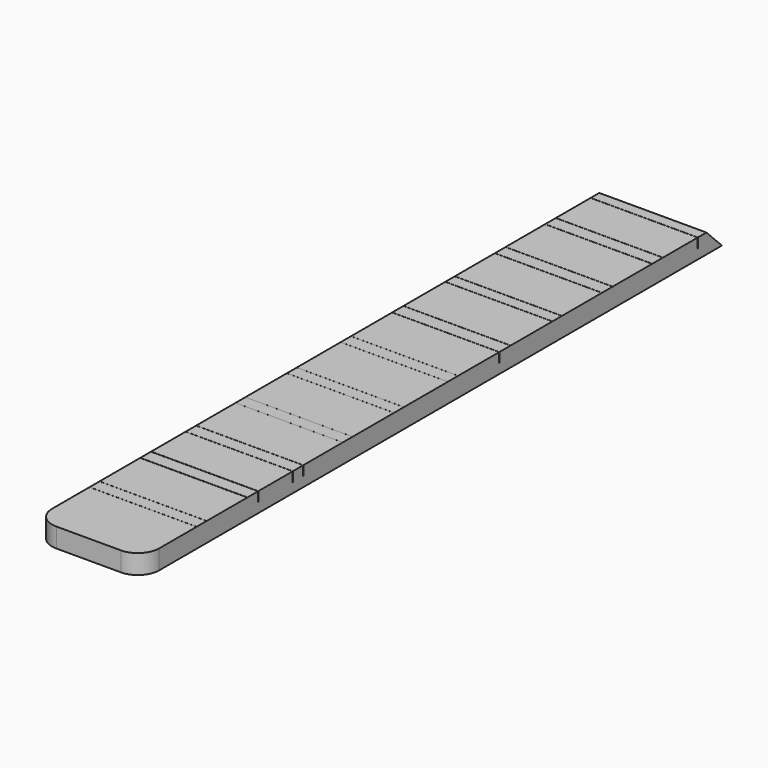
from build123d import *

# Parameters (mm, degrees)
PAD005_DEPTH    = 0.3
POCKET019_DEPTH = 5
POCKET021_DEPTH = 0.15


with BuildPart() as part:
    # Sketch022 (on Face1 of Binder004) → Pad005 (new body)
    with BuildSketch(Plane.XY.offset(3.9)):
        with BuildLine():
            Line((-0.83, -29.124264), (-0.83, -40.1))
            ThreePointArc((-0.83, -40.1), (-0.733345, -40.333345), (-0.5, -40.43))
            Line((-0.5, -40.43), (0.5, -40.43))
            ThreePointArc((0.5, -40.43), (0.733345, -40.333345), (0.83, -40.1))
            Line((0.83, -40.1), (0.83, -29.124264))
            Line((0.83, -29.124264), (-0.83, -29.124264))
        make_face()
    extrude(amount=PAD005_DEPTH)

    # Sketch023 (on Face1 of Pad005) → Pocket019 (cut)
    with BuildSketch(Plane(origin=(-0.83, 0, 0), x_dir=(0, -1, 0), z_dir=(-1, 0, 0))):
        Polygon((29.124264, 4.2), (29.504264, 4.2), (29.204264, 3.9), (29.124264, 3.9), align=None)
    extrude(amount=-POCKET019_DEPTH, mode=Mode.SUBTRACT)

    # Sketch025 (on Face4 of Pocket019) → Pocket021 (cut)
    with BuildSketch(Plane.XY.offset(4.2)):
        with BuildLine():
            ThreePointArc((-0.83, -29.67322), (-0.831482, -29.671738), (-0.83, -29.670256))
            Line((-0.83, -29.670256), (-0.276667, -29.670256))
            Line((-0.276667, -29.670256), (0.83, -29.670256))
            ThreePointArc((0.83, -29.670256), (0.831482, -29.671738), (0.83, -29.67322))
            Line((-0.276667, -29.67322), (0.83, -29.67322))
            Line((-0.83, -29.67322), (-0.276667, -29.67322))
        make_face()
        with BuildLine():
            ThreePointArc((0.822545, -30.552135), (0.824027, -30.553617), (0.822545, -30.555099))
            Line((0.822545, -30.555099), (0.271697, -30.555099))
            Line((0.271697, -30.555099), (-0.83, -30.555099))
            ThreePointArc((-0.83, -30.555099), (-0.831482, -30.553617), (-0.83, -30.552135))
            Line((0.271697, -30.552135), (-0.83, -30.552135))
            Line((0.822545, -30.552135), (0.271697, -30.552135))
        make_face()
        with BuildLine():
            ThreePointArc((-0.83, -30.347855), (-0.831482, -30.346373), (-0.83, -30.344891))
            Line((-0.83, -30.344891), (-0.276667, -30.344891))
            Line((-0.276667, -30.344891), (0.83, -30.344891))
            ThreePointArc((0.83, -30.344891), (0.831482, -30.346373), (0.83, -30.347855))
            Line((-0.276667, -30.347855), (0.83, -30.347855))
            Line((-0.83, -30.347855), (-0.276667, -30.347855))
        make_face()
        with BuildLine():
            ThreePointArc((-0.83, -31.320874), (-0.831408, -31.319466), (-0.83, -31.318058))
            Line((-0.83, -31.318058), (-0.276667, -31.318058))
            Line((-0.276667, -31.318058), (0.83, -31.318058))
            ThreePointArc((0.83, -31.318058), (0.831408, -31.319466), (0.83, -31.320874))
            Line((-0.276667, -31.320874), (0.83, -31.320874))
            Line((-0.83, -31.320874), (-0.276667, -31.320874))
        make_face()
        with BuildLine():
            ThreePointArc((0.83, -33.512935), (0.831408, -33.514343), (0.83, -33.515751))
            Line((0.83, -33.515751), (0.276667, -33.515751))
            Line((0.276667, -33.515751), (-0.83, -33.515751))
            ThreePointArc((-0.83, -33.515751), (-0.831408, -33.514343), (-0.83, -33.512935))
            Line((0.276667, -33.512935), (-0.83, -33.512935))
            Line((0.83, -33.512935), (0.276667, -33.512935))
        make_face()
        with BuildLine():
            ThreePointArc((-0.83, -33.297432), (-0.831408, -33.296024), (-0.83, -33.294616))
            Line((-0.83, -33.294616), (-0.276667, -33.294616))
            Line((-0.276667, -33.294616), (0.83, -33.294616))
            ThreePointArc((0.83, -33.294616), (0.831408, -33.296024), (0.83, -33.297432))
            Line((-0.276667, -33.297432), (0.83, -33.297432))
            Line((-0.83, -33.297432), (-0.276667, -33.297432))
        make_face()
        with BuildLine():
            ThreePointArc((0.83, -32.485115), (0.831408, -32.486523), (0.83, -32.487931))
            Line((0.83, -32.487931), (0.276667, -32.487931))
            Line((0.276667, -32.487931), (-0.83, -32.487931))
            ThreePointArc((-0.83, -32.487931), (-0.831408, -32.486523), (-0.83, -32.485115))
            Line((0.276667, -32.485115), (-0.83, -32.485115))
            Line((0.83, -32.485115), (0.276667, -32.485115))
        make_face()
        with BuildLine():
            ThreePointArc((-0.83, -32.30344), (-0.831408, -32.302032), (-0.83, -32.300624))
            Line((-0.83, -32.300624), (-0.276667, -32.300624))
            Line((-0.276667, -32.300624), (0.83, -32.300624))
            ThreePointArc((0.83, -32.300624), (0.831408, -32.302032), (0.83, -32.30344))
            Line((-0.276667, -32.30344), (0.83, -32.30344))
            Line((-0.83, -32.30344), (-0.276667, -32.30344))
        make_face()
        with BuildLine():
            ThreePointArc((0.83, -31.525518), (0.831408, -31.526926), (0.83, -31.528334))
            Line((0.83, -31.528334), (0.276667, -31.528334))
            Line((0.276667, -31.528334), (-0.83, -31.528334))
            ThreePointArc((-0.83, -31.528334), (-0.831408, -31.526926), (-0.83, -31.525518))
            Line((0.276667, -31.525518), (-0.83, -31.525518))
            Line((0.83, -31.525518), (0.276667, -31.525518))
        make_face()
        with BuildLine():
            ThreePointArc((-0.83, -34.312305), (-0.830534, -34.311771), (-0.83, -34.311237))
            Line((-0.83, -34.311237), (-0.276667, -34.311237))
            Line((-0.276667, -34.311237), (0.83, -34.311237))
            ThreePointArc((0.83, -34.311237), (0.830534, -34.311771), (0.83, -34.312305))
            Line((-0.276667, -34.312305), (0.83, -34.312305))
            Line((-0.83, -34.312305), (-0.276667, -34.312305))
        make_face()
        with BuildLine():
            ThreePointArc((-0.83, -34.512173), (-0.830534, -34.511639), (-0.83, -34.511105))
            Line((-0.83, -34.511105), (-0.276667, -34.511105))
            Line((-0.276667, -34.511105), (0.83, -34.511105))
            ThreePointArc((0.83, -34.511105), (0.830534, -34.511639), (0.83, -34.512173))
            Line((-0.276667, -34.512173), (0.83, -34.512173))
            Line((-0.83, -34.512173), (-0.276667, -34.512173))
        make_face()
        with BuildLine():
            ThreePointArc((-0.83, -35.362793), (-0.830515, -35.362278), (-0.83, -35.361763))
            Line((-0.83, -35.361763), (-0.276667, -35.361763))
            Line((-0.276667, -35.361763), (0.83, -35.361763))
            ThreePointArc((0.83, -35.361763), (0.830515, -35.362278), (0.83, -35.362793))
            Line((-0.276667, -35.362793), (0.83, -35.362793))
            Line((-0.83, -35.362793), (-0.276667, -35.362793))
        make_face()
        with BuildLine():
            ThreePointArc((-0.83, -35.553436), (-0.830515, -35.552921), (-0.83, -35.552406))
            Line((-0.83, -35.552406), (-0.276667, -35.552406))
            Line((-0.276667, -35.552406), (0.83, -35.552406))
            ThreePointArc((0.83, -35.552406), (0.830515, -35.552921), (0.83, -35.553436))
            Line((-0.276667, -35.553436), (0.83, -35.553436))
            Line((-0.83, -35.553436), (-0.276667, -35.553436))
        make_face()
        with BuildLine():
            ThreePointArc((-0.83, -36.356216), (-0.830198, -36.356018), (-0.83, -36.35582))
            Line((-0.83, -36.35582), (-0.276667, -36.35582))
            Line((-0.276667, -36.35582), (0.83, -36.35582))
            ThreePointArc((0.83, -36.35582), (0.830198, -36.356018), (0.83, -36.356216))
            Line((-0.276667, -36.356216), (0.83, -36.356216))
            Line((-0.83, -36.356216), (-0.276667, -36.356216))
        make_face()
        with BuildLine():
            ThreePointArc((-0.83, -36.546859), (-0.830198, -36.546661), (-0.83, -36.546463))
            Line((-0.83, -36.546463), (-0.276667, -36.546463))
            Line((-0.276667, -36.546463), (0.83, -36.546463))
            ThreePointArc((0.83, -36.546463), (0.830198, -36.546661), (0.83, -36.546859))
            Line((-0.276667, -36.546859), (0.83, -36.546859))
            Line((-0.83, -36.546859), (-0.276667, -36.546859))
        make_face()
        with BuildLine():
            ThreePointArc((-0.83, -37.311195), (-0.831175, -37.31002), (-0.83, -37.308845))
            Line((-0.83, -37.308845), (-0.276667, -37.308845))
            Line((-0.276667, -37.308845), (0.83, -37.308845))
            ThreePointArc((0.83, -37.308845), (0.831175, -37.31002), (0.83, -37.311195))
            Line((-0.276667, -37.311195), (0.83, -37.311195))
            Line((-0.83, -37.311195), (-0.276667, -37.311195))
        make_face()
        with BuildLine():
            ThreePointArc((-0.83, -37.514137), (-0.831175, -37.512962), (-0.83, -37.511787))
            Line((-0.83, -37.511787), (-0.276667, -37.511787))
            Line((-0.276667, -37.511787), (0.83, -37.511787))
            ThreePointArc((0.83, -37.511787), (0.831175, -37.512962), (0.83, -37.514137))
            Line((-0.276667, -37.514137), (0.83, -37.514137))
            Line((-0.83, -37.514137), (-0.276667, -37.514137))
        make_face()
        with BuildLine():
            ThreePointArc((-0.83, -38.185368), (-0.832079, -38.183289), (-0.83, -38.18121))
            Line((-0.83, -38.18121), (-0.276667, -38.18121))
            Line((-0.276667, -38.18121), (0.83, -38.18121))
            ThreePointArc((0.83, -38.18121), (0.832079, -38.183289), (0.83, -38.185368))
            Line((-0.276667, -38.185368), (0.83, -38.185368))
            Line((-0.83, -38.185368), (-0.276667, -38.185368))
        make_face()
        with BuildLine():
            ThreePointArc((-0.83, -38.394459), (-0.832079, -38.39238), (-0.83, -38.390301))
            Line((-0.83, -38.390301), (-0.276667, -38.390301))
            Line((-0.276667, -38.390301), (0.83, -38.390301))
            ThreePointArc((0.83, -38.390301), (0.832079, -38.39238), (0.83, -38.394459))
            Line((-0.276667, -38.394459), (0.83, -38.394459))
            Line((-0.83, -38.394459), (-0.276667, -38.394459))
        make_face()
        with BuildLine():
            ThreePointArc((-0.83, -39.181679), (-0.830775, -39.180904), (-0.83, -39.180129))
            Line((-0.83, -39.180129), (-0.276667, -39.180129))
            Line((-0.276667, -39.180129), (0.83, -39.180129))
            ThreePointArc((0.83, -39.180129), (0.830775, -39.180904), (0.83, -39.181679))
            Line((-0.276667, -39.181679), (0.83, -39.181679))
            Line((-0.83, -39.181679), (-0.276667, -39.181679))
        make_face()
        with BuildLine():
            ThreePointArc((-0.83, -39.375397), (-0.830775, -39.374622), (-0.83, -39.373847))
            Line((-0.83, -39.373847), (-0.276667, -39.373847))
            Line((-0.276667, -39.373847), (0.83, -39.373847))
            ThreePointArc((0.83, -39.373847), (0.830775, -39.374622), (0.83, -39.375397))
            Line((-0.276667, -39.375397), (0.83, -39.375397))
            Line((-0.83, -39.375397), (-0.276667, -39.375397))
        make_face()
    extrude(amount=-POCKET021_DEPTH, mode=Mode.SUBTRACT)


solid = part.part
